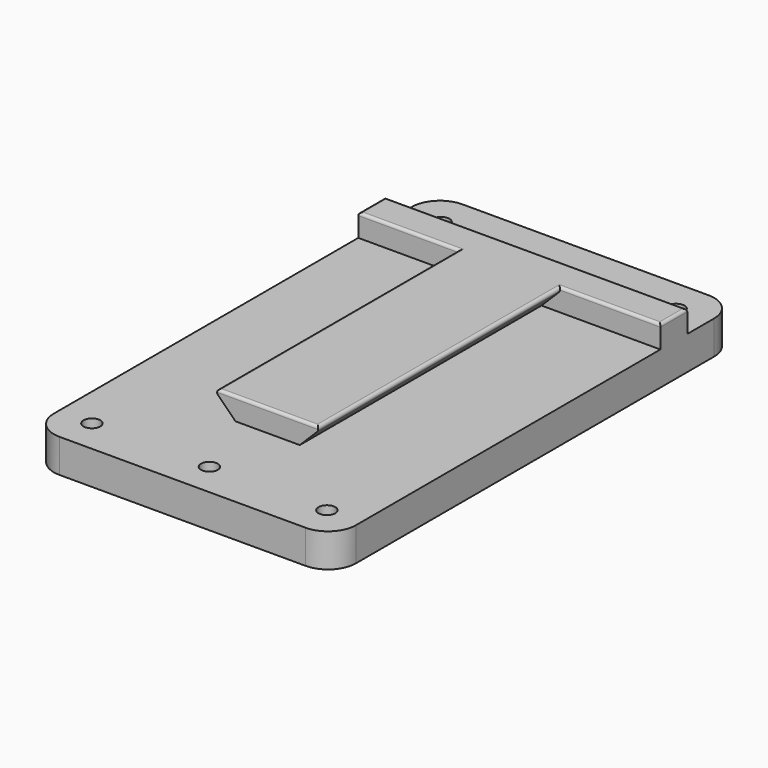
from build123d import *

# Parameters (mm, degrees)
F0_W      = 54
F0_H      = 90
F1_DEPTH  = 10
F3_DEPTH  = 73
F5_D      = 3
F6_W      = 11
F6_H      = 4
F7_DEPTH  = 54.001
F8_R      = 5
F9_W      = 19.5
F9_H      = 19
F9_R      = 1.5
F10_DEPTH = 4
F11_R     = 0.5


with BuildPart() as f1:
    # F0 (on Top) → F1 (new body)
    with BuildSketch(Plane.XY):
        Rectangle(F0_W, F0_H)
    extrude(amount=F1_DEPTH)

    # F2 (on face) → F3 (cut)
    with BuildSketch(Plane.XZ.offset(45)):
        Polygon((-27, 10), (-27, 6), (-5.75, 6), (-9.75, 10), align=None)
        Polygon((5.75, 6), (27, 6), (27, 10), (9.75, 10), align=None)
    extrude(amount=-F3_DEPTH, mode=Mode.SUBTRACT)

    # F5 (through all)
    with Locations(Plane(origin=(0, 0, 0), x_dir=(1, 0, 0), z_dir=(0, 0, -1))):
        with Locations((-21, 39), (21, 39), (21, -39), (-21, -39), (0, 39)):
            Hole(F5_D / 2)

    # F6 (on face) → F7 (cut, through all)
    with BuildSketch(Plane.YZ.offset(27)):
        with Locations((39.5, 8)):
            Rectangle(F6_W, F6_H)
    extrude(amount=-F7_DEPTH, mode=Mode.SUBTRACT)

    # F8
    f8_edges = [f1.edges().sort_by_distance(p)[0] for p in [
        (27, -45, 3),
        (27, 45, 3),
        (-27, 45, 3),
        (-27, -45, 3),
    ]]
    fillet(f8_edges, radius=F8_R)

    # F9 (on face) → F10 (cut)
    with BuildSketch(Plane.XY.offset(10)):
        with Locations((0, -35.5)):
            Rectangle(F9_W, F9_H)
        with Locations((0, -39)):
            Circle(F9_R, mode=Mode.SUBTRACT)
    extrude(amount=-F10_DEPTH, mode=Mode.SUBTRACT)

    # F11
    f11_edges = [f1.edges().sort_by_distance(p)[0] for p in [
        (-9.75, 1, 10),
        (9.75, 1, 10),
        (-18.375, 28, 10),
        (18.375, 28, 10),
        (0, -26, 10),
        (-27, 31, 10),
        (0, 34, 10),
        (27, 31, 10),
    ]]
    fillet(f11_edges, radius=F11_R)


solid = f1.part
